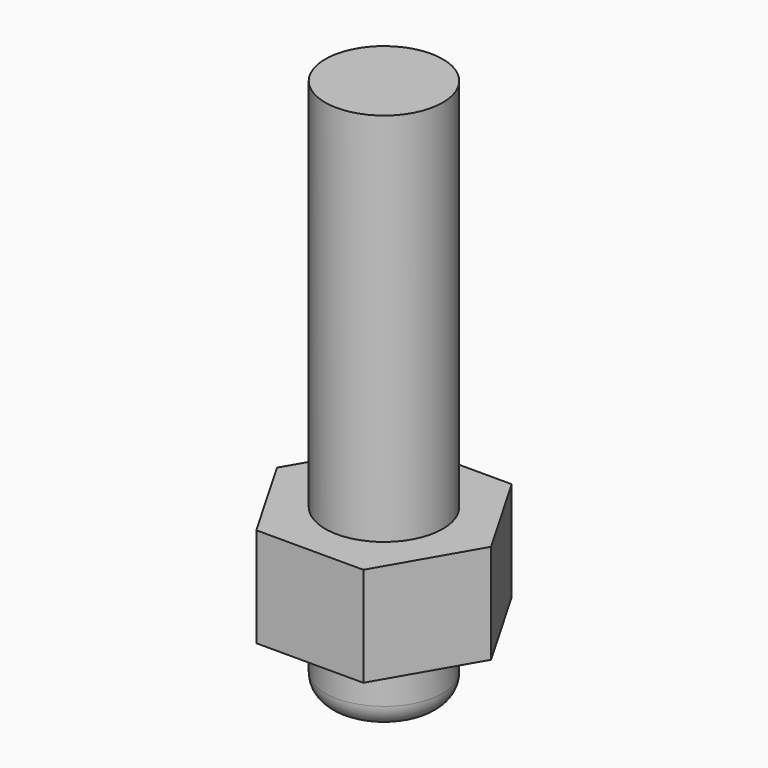
from build123d import *

# Parameters (mm, degrees)
F0_R     = 13
F1_DEPTH = 120
F2_R     = 5
F4_R     = 13
F5_DEPTH = 22


with BuildPart() as f1:
    # F0 (on Top) → F1 (new body)
    with BuildSketch(Plane.XY):
        Circle(F0_R)
    extrude(amount=F1_DEPTH)

    # F2
    f2_edges = [f1.edges().sort_by_distance(p)[0] for p in [
        (-13, 0, 0),
    ]]
    fillet(f2_edges, radius=F2_R)

    # F4 (on offset) → F5 (join)
    with BuildSketch(Plane.XY.offset(15)):
        Polygon((11.835681, 20.5), (-11.835681, 20.5), (-23.671361, 0), (-11.835681, -20.5), (11.835681, -20.5), (23.671361, 0), align=None)
        Circle(F4_R, mode=Mode.SUBTRACT)
    extrude(amount=F5_DEPTH)


solid = f1.part
